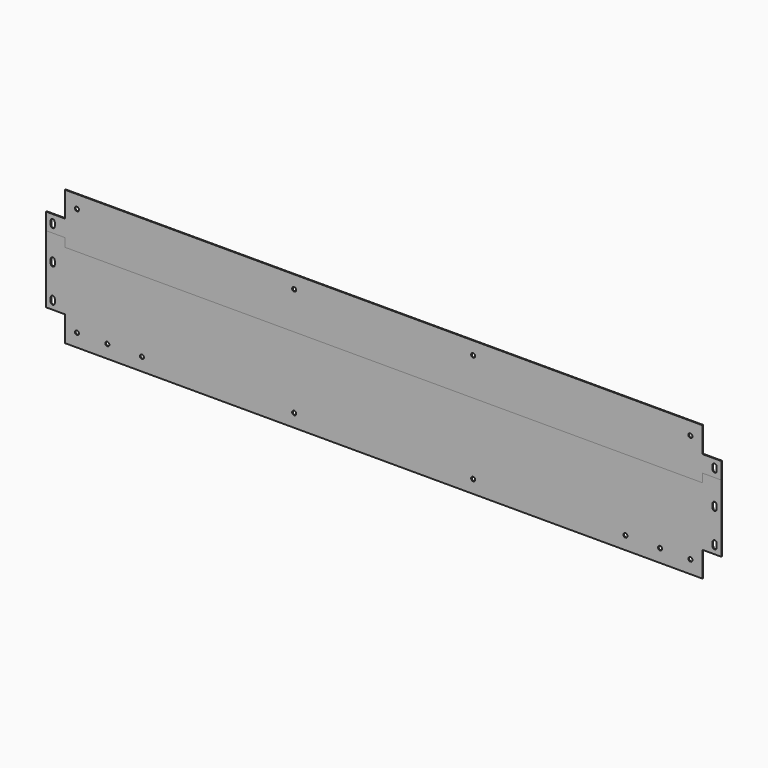
from build123d import *

# Parameters (mm, degrees)
F8_DEPTH  = 0.4
F2_R      = 3
F3_R      = 3
F4_R      = 3
F5_R      = 3
F9_DEPTH  = 0.4
F6_R      = 3
F11_DEPTH = 0.8
F7_R      = 3


with BuildPart() as f8:
    # F1 (on Front) → F8 (new body, symmetric)
    with BuildSketch(Plane.XZ):
        Polygon((471.9, 100), (-471.9, 100), (-471.9, 62.4), (-500, 62.4), (-500, -62.4), (-471.9, -62.4), (-471.9, -100), (471.9, -100), (471.9, -62.4), (500, -62.4), (500, 62.4), (471.9, 62.4), align=None)
        with BuildLine():
            ThreePointArc((-303.2571569938, 49.6779366263), (-301.2435712014, 49.9193566399), (-299.2171684737, 50))
            Line((-299.2171684737, 50), (-188.125, 50))
            ThreePointArc((-188.125, 50), (-170.0937770797, 42.5312229203), (-162.625, 24.5))
            Line((-162.625, 24.5), (-162.625, -24.5))
            ThreePointArc((-162.625, -24.5), (-170.0937770797, -42.5312229203), (-188.125, -50))
            Line((-188.125, -50), (-414.375, -50))
            ThreePointArc((-414.375, -50), (-432.4062229203, -42.5312229203), (-439.875, -24.5))
            Line((-439.875, -24.5), (-439.875, 6.0220633737))
            ThreePointArc((-439.875, 6.0220633737), (-433.7820825636, 22.563379717), (-418.4149885201, 31.2))
            Line((-418.4149885201, 31.2), (-303.2571569938, 49.6779366263))
        make_face(mode=Mode.SUBTRACT)
        with BuildLine():
            ThreePointArc((-102.5, 24.5), (-95.0312229203, 42.5312229203), (-77, 50))
            Line((-77, 50), (77, 50))
            ThreePointArc((77, 50), (95.0312229203, 42.5312229203), (102.5, 24.5))
            Line((102.5, 24.5), (102.5, -24.5))
            ThreePointArc((102.5, -24.5), (95.0312229203, -42.5312229203), (77, -50))
            Line((77, -50), (-77, -50))
            ThreePointArc((-77, -50), (-95.0312229203, -42.5312229203), (-102.5, -24.5))
            Line((-102.5, -24.5), (-102.5, 24.5))
        make_face(mode=Mode.SUBTRACT)
        with BuildLine():
            Line((162.625, -24.5), (162.625, 24.5))
            ThreePointArc((162.625, 24.5), (170.0937770797, 42.5312229203), (188.125, 50))
            Line((188.125, 50), (299.2171684737, 50))
            ThreePointArc((299.2171684737, 50), (301.2435712014, 49.9193566399), (303.2571569938, 49.6779366263))
            Line((303.2571569938, 49.6779366263), (418.4149885201, 31.2))
            ThreePointArc((418.4149885201, 31.2), (433.7820825636, 22.563379717), (439.875, 6.0220633737))
            Line((439.875, 6.0220633737), (439.875, -24.5))
            ThreePointArc((439.875, -24.5), (432.4062229203, -42.5312229203), (414.375, -50))
            Line((414.375, -50), (188.125, -50))
            ThreePointArc((188.125, -50), (170.0937770797, -42.5312229203), (162.625, -24.5))
        make_face(mode=Mode.SUBTRACT)
    extrude(amount=F8_DEPTH, both=True)

    # F5 (on Front) → F9 (cut, symmetric)
    with BuildSketch(Plane.XZ):
        with Locations((-454.3, 80.652)):
            Circle(F5_R)
        with Locations((-409.3, 80.652)):
            Circle(F5_R)
        with Locations((-358.075, 80.652)):
            Circle(F5_R)
        with Locations((-132.5625, 80.652)):
            Circle(F5_R)
        with BuildLine():
            Line((-487.152, 47), (-487.152, 53))
            ThreePointArc((-487.152, 53), (-490.152, 56), (-493.152, 53))
            Line((-493.152, 53), (-493.152, 47))
            ThreePointArc((-493.152, 47), (-490.152, 44), (-487.152, 47))
        make_face()
        with BuildLine():
            ThreePointArc((-493.152, -3), (-490.152, -6), (-487.152, -3))
            Line((-487.152, -3), (-487.152, 3))
            ThreePointArc((-487.152, 3), (-490.152, 6), (-493.152, 3))
            Line((-493.152, 3), (-493.152, -3))
        make_face()
        with BuildLine():
            ThreePointArc((-493.152, -53), (-490.152, -56), (-487.152, -53))
            Line((-487.152, -53), (-487.152, -47))
            ThreePointArc((-487.152, -47), (-490.152, -44), (-493.152, -47))
            Line((-493.152, -47), (-493.152, -53))
        make_face()
        with Locations((132.5625, 80.652)):
            Circle(F5_R)
        with Locations((358.075, 80.652)):
            Circle(F5_R)
        with Locations((409.3, 80.652)):
            Circle(F5_R)
        with Locations((454.3, 80.652)):
            Circle(F5_R)
        with BuildLine():
            ThreePointArc((487.152, -53), (490.152, -56), (493.152, -53))
            Line((493.152, -53), (493.152, -47))
            ThreePointArc((493.152, -47), (490.152, -44), (487.152, -47))
            Line((487.152, -47), (487.152, -53))
        make_face()
        with BuildLine():
            ThreePointArc((487.152, -3), (490.152, -6), (493.152, -3))
            Line((493.152, -3), (493.152, 3))
            ThreePointArc((493.152, 3), (490.152, 6), (487.152, 3))
            Line((487.152, 3), (487.152, -3))
        make_face()
        with BuildLine():
            ThreePointArc((487.152, 47), (490.152, 44), (493.152, 47))
            Line((493.152, 47), (493.152, 53))
            ThreePointArc((493.152, 53), (490.152, 56), (487.152, 53))
            Line((487.152, 53), (487.152, 47))
        make_face()
        with Locations((-358.075, -80.652)):
            Circle(F5_R)
        with Locations((132.5625, -80.652)):
            Circle(F5_R)
        with Locations((358.075, -80.652)):
            Circle(F5_R)
        with Locations((409.3, -80.652)):
            Circle(F5_R)
        with Locations((454.3, -80.652)):
            Circle(F5_R)
        with Locations((-132.5625, -80.652)):
            Circle(F5_R)
        with Locations((-454.3, -80.652)):
            Circle(F5_R)
        with Locations((-409.3, -80.652)):
            Circle(F5_R)
    extrude(amount=F9_DEPTH, both=True, mode=Mode.SUBTRACT)


with BuildPart() as f8b:
    # F2 (on Front) → F8, piece 2 (new body, symmetric)
    with BuildSketch(Plane.XZ):
        with BuildLine():
            ThreePointArc((-439.875, -24.5), (-432.4062229203, -42.5312229203), (-414.375, -50))
            Line((-414.375, -50), (-188.125, -50))
            ThreePointArc((-188.125, -50), (-170.0937770797, -42.5312229203), (-162.625, -24.5))
            Line((-162.625, -24.5), (-162.625, 0))
            Line((-162.625, 0), (-439.875, 0))
            Line((-439.875, 0), (-439.875, -24.5))
        make_face()
        with Locations((-419.975, -25)):
            Circle(F2_R, mode=Mode.SUBTRACT)
        with Locations((-368.75, -25)):
            Circle(F2_R, mode=Mode.SUBTRACT)
        with Locations((-323.75, -25)):
            Circle(F2_R, mode=Mode.SUBTRACT)
        with Locations((-278.75, -25)):
            Circle(F2_R, mode=Mode.SUBTRACT)
        with Locations((-233.75, -25)):
            Circle(F2_R, mode=Mode.SUBTRACT)
        with Locations((-182.525, -25)):
            Circle(F2_R, mode=Mode.SUBTRACT)
    extrude(amount=F8_DEPTH, both=True)


with BuildPart() as f8c:
    # F3 (on Front) → F8, piece 3 (new body, symmetric)
    with BuildSketch(Plane.XZ):
        with BuildLine():
            Line((77, 50), (-77, 50))
            ThreePointArc((-77, 50), (-82.3704537997, 49.4280610153), (-87.5, 47.7379000772))
            Line((-87.5, 47.7379000772), (-87.5, 35))
            Line((-87.5, 35), (-90.5, 35))
            Line((-90.5, 35), (-90.5, 46.1333076528))
            ThreePointArc((-90.5, 46.1333076528), (-99.299103121, 36.8693168769), (-102.5, 24.5))
            Line((-102.5, 24.5), (-102.5, -24.5))
            ThreePointArc((-102.5, -24.5), (-99.299103121, -36.8693168769), (-90.5, -46.1333076528))
            Line((-90.5, -46.1333076528), (-90.5, -35))
            Line((-90.5, -35), (-87.5, -35))
            Line((-87.5, -35), (-87.5, -47.7379000772))
            ThreePointArc((-87.5, -47.7379000772), (-82.3704537997, -49.4280610153), (-77, -50))
            Line((-77, -50), (77, -50))
            ThreePointArc((77, -50), (82.3704537997, -49.4280610153), (87.5, -47.7379000772))
            Line((87.5, -47.7379000772), (87.5, -35))
            Line((87.5, -35), (90.5, -35))
            Line((90.5, -35), (90.5, -46.1333076528))
            ThreePointArc((90.5, -46.1333076528), (99.299103121, -36.8693168769), (102.5, -24.5))
            Line((102.5, -24.5), (102.5, 24.5))
            ThreePointArc((102.5, 24.5), (99.299103121, 36.8693168769), (90.5, 46.1333076528))
            Line((90.5, 46.1333076528), (90.5, 35))
            Line((90.5, 35), (87.5, 35))
            Line((87.5, 35), (87.5, 47.7379000772))
            ThreePointArc((87.5, 47.7379000772), (82.3704537997, 49.4280610153), (77, 50))
        make_face()
        with Locations((-75, -22.5)):
            Circle(F3_R, mode=Mode.SUBTRACT)
        with Locations((75, -22.5)):
            Circle(F3_R, mode=Mode.SUBTRACT)
        with Locations((-75, 22.5)):
            Circle(F3_R, mode=Mode.SUBTRACT)
        with Locations((75, 22.5)):
            Circle(F3_R, mode=Mode.SUBTRACT)
    extrude(amount=F8_DEPTH, both=True)


with BuildPart() as f8d:
    # F4 (on Front) → F8, piece 4 (new body, symmetric)
    with BuildSketch(Plane.XZ):
        with BuildLine():
            Line((-187.8346096538, 25.2), (-162.6346096538, 25.2))
            ThreePointArc((-162.6346096538, 25.2), (-166.4410810259, 37.9185564769), (-176.125, 47))
            Line((-176.125, 47), (-187.8346096538, 47))
            Line((-187.8346096538, 47), (-187.8346096538, 50))
            Line((-187.8346096538, 50), (-299.2171684737, 50))
            ThreePointArc((-299.2171684737, 50), (-301.2435712014, 49.9193566399), (-303.2571569938, 49.6779366263))
            Line((-303.2571569938, 49.6779366263), (-418.4149885201, 31.2))
            ThreePointArc((-418.4149885201, 31.2), (-425.221358612, 29.1003324782), (-431.1814495584, 25.2))
            Line((-431.1814495584, 25.2), (-428.1814495584, 25.2))
            Line((-428.1814495584, 25.2), (-428.1814495584, 22.2))
            Line((-428.1814495584, 22.2), (-434.0860214478, 22.2))
            ThreePointArc((-434.0860214478, 22.2), (-438.384175818, 14.6133075526), (-439.875, 6.0220633737))
            Line((-439.875, 6.0220633737), (-439.875, 0))
            Line((-439.875, 0), (-187.8346096538, 0))
            Line((-187.8346096538, 0), (-187.8346096538, 25.2))
        make_face()
        with Locations((-422.4846096538, 12.6)):
            Circle(F4_R, mode=Mode.SUBTRACT)
        with Locations((-210.3346096538, 12.6)):
            Circle(F4_R, mode=Mode.SUBTRACT)
        with Locations((-306.5596096538, 39.8347659695)):
            Circle(F4_R, mode=Mode.SUBTRACT)
    extrude(amount=F8_DEPTH, both=True)


with BuildPart() as f10_1:
    # F10: instance of F8b
    add(f8b.part.mirror(Plane.YZ))


with BuildPart() as f10_2:
    # F10: instance of F8d
    add(f8d.part.mirror(Plane.YZ))


with BuildPart() as f11:
    # F6 (on Front) → F11 (new body)
    with BuildSketch(Plane.XZ):
        Polygon((471.9, 100), (-471.9, 100), (-471.9, 62.4), (-500, 62.4), (-500, -62.4), (-471.9, -62.4), (-471.9, -100), (471.9, -100), (471.9, -62.4), (500, -62.4), (500, 62.4), (471.9, 62.4), align=None)
        with Locations((-454.3, -80.652)):
            Circle(F6_R, mode=Mode.SUBTRACT)
        with Locations((-409.3, -80.652)):
            Circle(F6_R, mode=Mode.SUBTRACT)
        with Locations((-358.075, -80.652)):
            Circle(F6_R, mode=Mode.SUBTRACT)
        with Locations((-132.5625, -80.652)):
            Circle(F6_R, mode=Mode.SUBTRACT)
        with BuildLine():
            ThreePointArc((-493.152, -47), (-490.152, -44), (-487.152, -47))
            Line((-487.152, -47), (-487.152, -53))
            ThreePointArc((-487.152, -53), (-490.152, -56), (-493.152, -53))
            Line((-493.152, -53), (-493.152, -47))
        make_face(mode=Mode.SUBTRACT)
        with Locations((132.5625, -80.652)):
            Circle(F6_R, mode=Mode.SUBTRACT)
        with Locations((358.075, -80.652)):
            Circle(F6_R, mode=Mode.SUBTRACT)
        with Locations((409.3, -80.652)):
            Circle(F6_R, mode=Mode.SUBTRACT)
        with Locations((454.3, -80.652)):
            Circle(F6_R, mode=Mode.SUBTRACT)
        with BuildLine():
            ThreePointArc((487.152, -47), (490.152, -44), (493.152, -47))
            Line((493.152, -47), (493.152, -53))
            ThreePointArc((493.152, -53), (490.152, -56), (487.152, -53))
            Line((487.152, -53), (487.152, -47))
        make_face(mode=Mode.SUBTRACT)
        with BuildLine():
            ThreePointArc((-493.152, 3), (-490.152, 6), (-487.152, 3))
            Line((-487.152, 3), (-487.152, -3))
            ThreePointArc((-487.152, -3), (-490.152, -6), (-493.152, -3))
            Line((-493.152, -3), (-493.152, 3))
        make_face(mode=Mode.SUBTRACT)
        with BuildLine():
            ThreePointArc((-493.152, 53), (-490.152, 56), (-487.152, 53))
            Line((-487.152, 53), (-487.152, 47))
            ThreePointArc((-487.152, 47), (-490.152, 44), (-493.152, 47))
            Line((-493.152, 47), (-493.152, 53))
        make_face(mode=Mode.SUBTRACT)
        with Locations((-454.3, 80.652)):
            Circle(F6_R, mode=Mode.SUBTRACT)
        with Locations((-409.3, 80.652)):
            Circle(F6_R, mode=Mode.SUBTRACT)
        with Locations((-358.075, 80.652)):
            Circle(F6_R, mode=Mode.SUBTRACT)
        with Locations((-132.5625, 80.652)):
            Circle(F6_R, mode=Mode.SUBTRACT)
        with BuildLine():
            ThreePointArc((487.152, 3), (490.152, 6), (493.152, 3))
            Line((493.152, 3), (493.152, -3))
            ThreePointArc((493.152, -3), (490.152, -6), (487.152, -3))
            Line((487.152, -3), (487.152, 3))
        make_face(mode=Mode.SUBTRACT)
        with Locations((132.5625, 80.652)):
            Circle(F6_R, mode=Mode.SUBTRACT)
        with BuildLine():
            ThreePointArc((493.152, 47), (490.152, 44), (487.152, 47))
            Line((487.152, 47), (487.152, 53))
            ThreePointArc((487.152, 53), (490.152, 56), (493.152, 53))
            Line((493.152, 53), (493.152, 47))
        make_face(mode=Mode.SUBTRACT)
        with Locations((358.075, 80.652)):
            Circle(F6_R, mode=Mode.SUBTRACT)
        with Locations((409.3, 80.652)):
            Circle(F6_R, mode=Mode.SUBTRACT)
        with Locations((454.3, 80.652)):
            Circle(F6_R, mode=Mode.SUBTRACT)
    extrude(amount=F11_DEPTH)


with BuildPart() as f11b:
    # F7 (on Front) → F11, piece 2 (new body)
    with BuildSketch(Plane.XZ):
        Polygon((471.9, 37.6), (500, 37.6), (500, 62.4), (471.9, 62.4), (471.9, 100), (-471.9, 100), (-471.9, 62.4), (-500, 62.4), (-500, 37.6), (-471.9, 37.6), (-471.9, 25), (471.9, 25), align=None)
        with BuildLine():
            ThreePointArc((-493.152, 53), (-490.152, 56), (-487.152, 53))
            Line((-487.152, 53), (-487.152, 47))
            ThreePointArc((-487.152, 47), (-490.152, 44), (-493.152, 47))
            Line((-493.152, 47), (-493.152, 53))
        make_face(mode=Mode.SUBTRACT)
        with BuildLine():
            ThreePointArc((493.152, 47), (490.152, 44), (487.152, 47))
            Line((487.152, 47), (487.152, 53))
            ThreePointArc((487.152, 53), (490.152, 56), (493.152, 53))
            Line((493.152, 53), (493.152, 47))
        make_face(mode=Mode.SUBTRACT)
        with Locations((-454.3, 80.652)):
            Circle(F7_R, mode=Mode.SUBTRACT)
        with Locations((-132.5625, 80.652)):
            Circle(F7_R, mode=Mode.SUBTRACT)
        with Locations((132.5625, 80.652)):
            Circle(F7_R, mode=Mode.SUBTRACT)
        with Locations((454.3, 80.652)):
            Circle(F7_R, mode=Mode.SUBTRACT)
    extrude(amount=F11_DEPTH)


solid = Compound([f8.part, f8b.part, f8c.part, f8d.part, f10_1.part, f10_2.part, f11.part, f11b.part])
